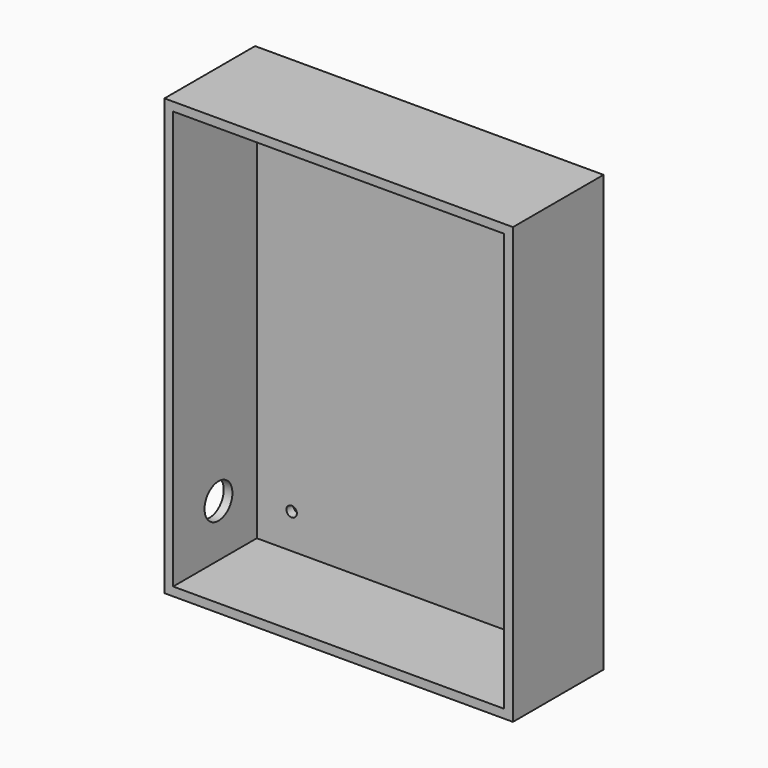
from build123d import *

# Parameters (mm, degrees)
F0_W     = 200
F0_H     = 250
F1_DEPTH = 5
F2_W     = 200
F2_H     = 250
F2_W_2   = 189.999994
F2_H_2   = 239.999994
F3_DEPTH = 60
F5_DEPTH = 5.001
F6_R     = 10
F7_DEPTH = 25


with BuildPart() as f1:
    # F0 (on Front) → F1 (new body)
    with BuildSketch(Plane.XZ):
        Rectangle(F0_W, F0_H)
    extrude(amount=F1_DEPTH)

    # F2 (on face) → F3 (join)
    with BuildSketch(Plane.XZ.offset(5)):
        Rectangle(F2_W, F2_H)
        Rectangle(F2_W_2, F2_H_2, mode=Mode.SUBTRACT)
    extrude(amount=F3_DEPTH)

    # F4 (on face) → F5 (cut, through all)
    with BuildSketch(Plane.XZ.offset(5)):
        with BuildLine():
            ThreePointArc((-74.999997, 96.999997), (-72.878677, 97.878677), (-71.999997, 99.999997))
            Line((-71.999997, 99.999997), (-74.999997, 99.999997))
            Line((-74.999997, 99.999997), (-74.999997, 96.999997))
        make_face()
        with BuildLine():
            Line((-74.999997, 99.999997), (-71.999997, 99.999997))
            ThreePointArc((-71.999997, 99.999997), (-77.121318, 102.121318), (-74.999997, 96.999997))
            Line((-74.999997, 96.999997), (-74.999997, 99.999997))
        make_face()
        with BuildLine():
            ThreePointArc((77.999997, 99.999997), (74.999997, 102.999997), (71.999997, 99.999997))
            Line((71.999997, 99.999997), (74.999997, 99.999997))
            Line((74.999997, 99.999997), (74.999997, 96.999997))
            ThreePointArc((74.999997, 96.999997), (77.121318, 97.878677), (77.999997, 99.999997))
        make_face()
        with BuildLine():
            Line((74.999997, 99.999997), (71.999997, 99.999997))
            ThreePointArc((71.999997, 99.999997), (72.878677, 97.878677), (74.999997, 96.999997))
            Line((74.999997, 96.999997), (74.999997, 99.999997))
        make_face()
        with BuildLine():
            ThreePointArc((77.999997, -99.999997), (77.121318, -97.878677), (74.999997, -96.999997))
            Line((74.999997, -96.999997), (74.999997, -99.999997))
            Line((74.999997, -99.999997), (71.999997, -99.999997))
            ThreePointArc((71.999997, -99.999997), (74.999997, -102.999997), (77.999997, -99.999997))
        make_face()
        with BuildLine():
            Line((74.999997, -99.999997), (74.999997, -96.999997))
            ThreePointArc((74.999997, -96.999997), (72.878677, -97.878677), (71.999997, -99.999997))
            Line((71.999997, -99.999997), (74.999997, -99.999997))
        make_face()
        with BuildLine():
            Line((-74.999997, -99.999997), (-74.999997, -96.999997))
            ThreePointArc((-74.999997, -96.999997), (-77.121318, -102.121318), (-71.999997, -99.999997))
            Line((-71.999997, -99.999997), (-74.999997, -99.999997))
        make_face()
        with BuildLine():
            ThreePointArc((-71.999997, -99.999997), (-72.878677, -97.878677), (-74.999997, -96.999997))
            Line((-74.999997, -96.999997), (-74.999997, -99.999997))
            Line((-74.999997, -99.999997), (-71.999997, -99.999997))
        make_face()
    extrude(amount=-F5_DEPTH, mode=Mode.SUBTRACT)

    # F6 (on face) → F7 (cut)
    with BuildSketch(Plane(origin=(-100, 0, 0), x_dir=(0, -1, 0), z_dir=(-1, 0, 0))):
        with Locations((32.5, -90)):
            Circle(F6_R)
    extrude(amount=-F7_DEPTH, mode=Mode.SUBTRACT)


solid = f1.part
